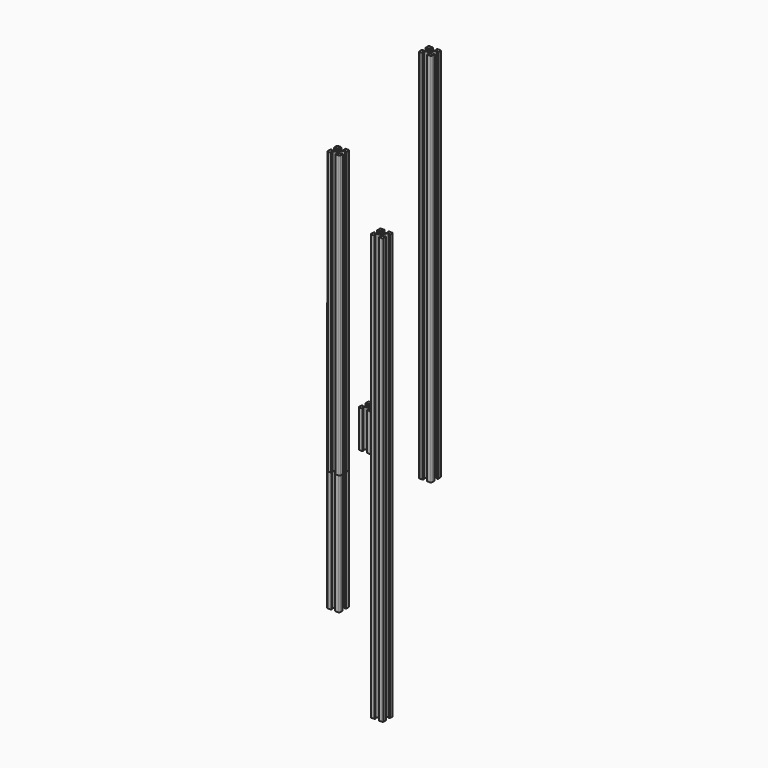
from build123d import *

# Parameters (mm, degrees)
F0_R     = 2.5
F1_DEPTH = 340
F2_R     = 2.5
F3_DEPTH = 215
F4_R     = 2.5
F5_DEPTH = 600
F6_R     = 2.5
F7_DEPTH = 450
F8_R     = 2.5
F9_DEPTH = 60


with BuildPart() as f1:
    # F0 (on Top) → F1 (new body, symmetric)
    with BuildSketch(Plane.XY):
        with BuildLine():
            Line((-4.724786, -6.718866), (-1.724786, -6.718866))
            ThreePointArc((-1.724786, -6.718866), (-0.664126, -6.279526), (-0.224786, -5.218866))
            Line((-0.224786, -5.218866), (-0.224786, -2.218866))
            Line((-0.224786, -2.218866), (-0.224786, -0.318866))
            Line((-0.224786, -0.318866), (-0.524786, -0.318866))
            ThreePointArc((-0.524786, -0.318866), (-0.666208, -0.260287), (-0.724786, -0.118866))
            Line((-0.724786, -0.118866), (-0.724786, 0.181134))
            Line((-0.724786, 0.181134), (-2.024786, 0.181134))
            Line((-2.024786, 0.181134), (-2.024786, -2.218866))
            Line((-2.024786, -2.218866), (-3.664126, -2.218866))
            Line((-3.664126, -2.218866), (-5.739, -0.143992))
            ThreePointArc((-5.739, -0.143992), (-6.172545, 0.504855), (-6.324786, 1.270222))
            Line((-6.324786, 1.270222), (-6.324786, 5.292047))
            ThreePointArc((-6.324786, 5.292047), (-6.172545, 6.057414), (-5.739, 6.706261))
            Line((-5.739, 6.706261), (-3.664126, 8.781134))
            Line((-3.664126, 8.781134), (-2.024786, 8.781134))
            Line((-2.024786, 8.781134), (-2.024786, 6.381134))
            Line((-2.024786, 6.381134), (-0.724786, 6.381134))
            Line((-0.724786, 6.381134), (-0.724786, 6.681134))
            ThreePointArc((-0.724786, 6.681134), (-0.666208, 6.822556), (-0.524786, 6.881134))
            Line((-0.524786, 6.881134), (-0.224786, 6.881134))
            Line((-0.224786, 6.881134), (-0.224786, 8.781134))
            Line((-0.224786, 8.781134), (-0.224786, 11.781134))
            ThreePointArc((-0.224786, 11.781134), (-0.664126, 12.841794), (-1.724786, 13.281134))
            Line((-1.724786, 13.281134), (-4.724786, 13.281134))
            Line((-4.724786, 13.281134), (-6.124786, 13.281134))
            Line((-6.124786, 13.281134), (-6.624786, 13.281134))
            Line((-6.624786, 13.281134), (-6.624786, 12.981134))
            ThreePointArc((-6.624786, 12.981134), (-6.683365, 12.839713), (-6.824786, 12.781134))
            Line((-6.824786, 12.781134), (-7.124786, 12.781134))
            Line((-7.124786, 12.781134), (-7.124786, 11.481134))
            Line((-7.124786, 11.481134), (-4.724786, 11.481134))
            Line((-4.724786, 11.481134), (-4.724786, 9.841794))
            Line((-4.724786, 9.841794), (-6.79966, 7.766921))
            ThreePointArc((-6.79966, 7.766921), (-7.448507, 7.333375), (-8.213873, 7.181134))
            Line((-8.213873, 7.181134), (-12.235699, 7.181134))
            ThreePointArc((-12.235699, 7.181134), (-13.001066, 7.333375), (-13.649912, 7.766921))
            Line((-13.649912, 7.766921), (-15.724786, 9.841794))
            Line((-15.724786, 9.841794), (-15.724786, 11.481134))
            Line((-15.724786, 11.481134), (-13.324786, 11.481134))
            Line((-13.324786, 11.481134), (-13.324786, 12.781134))
            Line((-13.324786, 12.781134), (-13.624786, 12.781134))
            ThreePointArc((-13.624786, 12.781134), (-13.766208, 12.839713), (-13.824786, 12.981134))
            Line((-13.824786, 12.981134), (-13.824786, 13.281134))
            Line((-13.824786, 13.281134), (-14.324786, 13.281134))
            Line((-14.324786, 13.281134), (-15.724786, 13.281134))
            Line((-15.724786, 13.281134), (-18.724786, 13.281134))
            ThreePointArc((-18.724786, 13.281134), (-19.785446, 12.841794), (-20.224786, 11.781134))
            Line((-20.224786, 11.781134), (-20.224786, 8.781134))
            Line((-20.224786, 8.781134), (-20.224786, 6.881134))
            Line((-20.224786, 6.881134), (-19.924786, 6.881134))
            ThreePointArc((-19.924786, 6.881134), (-19.783365, 6.822556), (-19.724786, 6.681134))
            Line((-19.724786, 6.681134), (-19.724786, 6.381134))
            Line((-19.724786, 6.381134), (-18.424786, 6.381134))
            Line((-18.424786, 6.381134), (-18.424786, 8.781134))
            Line((-18.424786, 8.781134), (-16.785446, 8.781134))
            Line((-16.785446, 8.781134), (-14.710573, 6.706261))
            ThreePointArc((-14.710573, 6.706261), (-14.277027, 6.057414), (-14.124786, 5.292047))
            Line((-14.124786, 5.292047), (-14.124786, 1.270222))
            ThreePointArc((-14.124786, 1.270222), (-14.277027, 0.504855), (-14.710573, -0.143992))
            Line((-14.710573, -0.143992), (-16.785446, -2.218866))
            Line((-16.785446, -2.218866), (-18.424786, -2.218866))
            Line((-18.424786, -2.218866), (-18.424786, 0.181134))
            Line((-18.424786, 0.181134), (-19.724786, 0.181134))
            Line((-19.724786, 0.181134), (-19.724786, -0.118866))
            ThreePointArc((-19.724786, -0.118866), (-19.783365, -0.260287), (-19.924786, -0.318866))
            Line((-19.924786, -0.318866), (-20.224786, -0.318866))
            Line((-20.224786, -0.318866), (-20.224786, -2.218866))
            Line((-20.224786, -2.218866), (-20.224786, -5.218866))
            ThreePointArc((-20.224786, -5.218866), (-19.785446, -6.279526), (-18.724786, -6.718866))
            Line((-18.724786, -6.718866), (-15.724786, -6.718866))
            Line((-15.724786, -6.718866), (-14.324786, -6.718866))
            Line((-14.324786, -6.718866), (-13.824786, -6.718866))
            Line((-13.824786, -6.718866), (-13.824786, -6.418866))
            ThreePointArc((-13.824786, -6.418866), (-13.766208, -6.277444), (-13.624786, -6.218866))
            Line((-13.624786, -6.218866), (-13.324786, -6.218866))
            Line((-13.324786, -6.218866), (-13.324786, -4.918866))
            Line((-13.324786, -4.918866), (-15.724786, -4.918866))
            Line((-15.724786, -4.918866), (-15.724786, -3.279526))
            Line((-15.724786, -3.279526), (-13.649912, -1.204652))
            ThreePointArc((-13.649912, -1.204652), (-13.001066, -0.771107), (-12.235699, -0.618866))
            Line((-12.235699, -0.618866), (-8.213873, -0.618866))
            ThreePointArc((-8.213873, -0.618866), (-7.448507, -0.771107), (-6.79966, -1.204652))
            Line((-6.79966, -1.204652), (-4.724786, -3.279526))
            Line((-4.724786, -3.279526), (-4.724786, -4.918866))
            Line((-4.724786, -4.918866), (-7.124786, -4.918866))
            Line((-7.124786, -4.918866), (-7.124786, -6.218866))
            Line((-7.124786, -6.218866), (-6.824786, -6.218866))
            ThreePointArc((-6.824786, -6.218866), (-6.683365, -6.277444), (-6.624786, -6.418866))
            Line((-6.624786, -6.418866), (-6.624786, -6.718866))
            Line((-6.624786, -6.718866), (-6.124786, -6.718866))
            Line((-6.124786, -6.718866), (-4.724786, -6.718866))
        make_face()
        with Locations((-10.224786, 3.281134)):
            Circle(F0_R, mode=Mode.SUBTRACT)
    extrude(amount=F1_DEPTH, both=True)


with BuildPart() as f3:
    # F2 (on Top) → F3 (new body, symmetric)
    with BuildSketch(Plane.XY):
        with BuildLine():
            Line((-81.960408, 2.570584), (-78.960408, 2.570584))
            ThreePointArc((-78.960408, 2.570584), (-77.899748, 3.009924), (-77.460408, 4.070584))
            Line((-77.460408, 4.070584), (-77.460408, 7.070584))
            Line((-77.460408, 7.070584), (-77.460408, 8.970584))
            Line((-77.460408, 8.970584), (-77.760408, 8.970584))
            ThreePointArc((-77.760408, 8.970584), (-77.90183, 9.029163), (-77.960408, 9.170584))
            Line((-77.960408, 9.170584), (-77.960408, 9.470584))
            Line((-77.960408, 9.470584), (-79.260408, 9.470584))
            Line((-79.260408, 9.470584), (-79.260408, 7.070584))
            Line((-79.260408, 7.070584), (-80.899748, 7.070584))
            Line((-80.899748, 7.070584), (-82.974622, 9.145458))
            ThreePointArc((-82.974622, 9.145458), (-83.408168, 9.794305), (-83.560408, 10.559672))
            Line((-83.560408, 10.559672), (-83.560408, 14.581497))
            ThreePointArc((-83.560408, 14.581497), (-83.408168, 15.346864), (-82.974622, 15.995711))
            Line((-82.974622, 15.995711), (-80.899748, 18.070584))
            Line((-80.899748, 18.070584), (-79.260408, 18.070584))
            Line((-79.260408, 18.070584), (-79.260408, 15.670584))
            Line((-79.260408, 15.670584), (-77.960408, 15.670584))
            Line((-77.960408, 15.670584), (-77.960408, 15.970584))
            ThreePointArc((-77.960408, 15.970584), (-77.90183, 16.112006), (-77.760408, 16.170584))
            Line((-77.760408, 16.170584), (-77.460408, 16.170584))
            Line((-77.460408, 16.170584), (-77.460408, 18.070584))
            Line((-77.460408, 18.070584), (-77.460408, 21.070584))
            ThreePointArc((-77.460408, 21.070584), (-77.899748, 22.131244), (-78.960408, 22.570584))
            Line((-78.960408, 22.570584), (-81.960408, 22.570584))
            Line((-81.960408, 22.570584), (-83.360408, 22.570584))
            Line((-83.360408, 22.570584), (-83.860408, 22.570584))
            Line((-83.860408, 22.570584), (-83.860408, 22.270584))
            ThreePointArc((-83.860408, 22.270584), (-83.918987, 22.129163), (-84.060408, 22.070584))
            Line((-84.060408, 22.070584), (-84.360408, 22.070584))
            Line((-84.360408, 22.070584), (-84.360408, 20.770584))
            Line((-84.360408, 20.770584), (-81.960408, 20.770584))
            Line((-81.960408, 20.770584), (-81.960408, 19.131244))
            Line((-81.960408, 19.131244), (-84.035282, 17.056371))
            ThreePointArc((-84.035282, 17.056371), (-84.684129, 16.622825), (-85.449496, 16.470584))
            Line((-85.449496, 16.470584), (-89.471321, 16.470584))
            ThreePointArc((-89.471321, 16.470584), (-90.236688, 16.622825), (-90.885535, 17.056371))
            Line((-90.885535, 17.056371), (-92.960408, 19.131244))
            Line((-92.960408, 19.131244), (-92.960408, 20.770584))
            Line((-92.960408, 20.770584), (-90.560408, 20.770584))
            Line((-90.560408, 20.770584), (-90.560408, 22.070584))
            Line((-90.560408, 22.070584), (-90.860408, 22.070584))
            ThreePointArc((-90.860408, 22.070584), (-91.00183, 22.129163), (-91.060408, 22.270584))
            Line((-91.060408, 22.270584), (-91.060408, 22.570584))
            Line((-91.060408, 22.570584), (-91.560408, 22.570584))
            Line((-91.560408, 22.570584), (-92.960408, 22.570584))
            Line((-92.960408, 22.570584), (-95.960408, 22.570584))
            ThreePointArc((-95.960408, 22.570584), (-97.021069, 22.131244), (-97.460408, 21.070584))
            Line((-97.460408, 21.070584), (-97.460408, 18.070584))
            Line((-97.460408, 18.070584), (-97.460408, 16.170584))
            Line((-97.460408, 16.170584), (-97.160408, 16.170584))
            ThreePointArc((-97.160408, 16.170584), (-97.018987, 16.112006), (-96.960408, 15.970584))
            Line((-96.960408, 15.970584), (-96.960408, 15.670584))
            Line((-96.960408, 15.670584), (-95.660408, 15.670584))
            Line((-95.660408, 15.670584), (-95.660408, 18.070584))
            Line((-95.660408, 18.070584), (-94.021069, 18.070584))
            Line((-94.021069, 18.070584), (-91.946195, 15.995711))
            ThreePointArc((-91.946195, 15.995711), (-91.512649, 15.346864), (-91.360408, 14.581497))
            Line((-91.360408, 14.581497), (-91.360408, 10.559672))
            ThreePointArc((-91.360408, 10.559672), (-91.512649, 9.794305), (-91.946195, 9.145458))
            Line((-91.946195, 9.145458), (-94.021069, 7.070584))
            Line((-94.021069, 7.070584), (-95.660408, 7.070584))
            Line((-95.660408, 7.070584), (-95.660408, 9.470584))
            Line((-95.660408, 9.470584), (-96.960408, 9.470584))
            Line((-96.960408, 9.470584), (-96.960408, 9.170584))
            ThreePointArc((-96.960408, 9.170584), (-97.018987, 9.029163), (-97.160408, 8.970584))
            Line((-97.160408, 8.970584), (-97.460408, 8.970584))
            Line((-97.460408, 8.970584), (-97.460408, 7.070584))
            Line((-97.460408, 7.070584), (-97.460408, 4.070584))
            ThreePointArc((-97.460408, 4.070584), (-97.021069, 3.009924), (-95.960408, 2.570584))
            Line((-95.960408, 2.570584), (-92.960408, 2.570584))
            Line((-92.960408, 2.570584), (-91.560408, 2.570584))
            Line((-91.560408, 2.570584), (-91.060408, 2.570584))
            Line((-91.060408, 2.570584), (-91.060408, 2.870584))
            ThreePointArc((-91.060408, 2.870584), (-91.00183, 3.012006), (-90.860408, 3.070584))
            Line((-90.860408, 3.070584), (-90.560408, 3.070584))
            Line((-90.560408, 3.070584), (-90.560408, 4.370584))
            Line((-90.560408, 4.370584), (-92.960408, 4.370584))
            Line((-92.960408, 4.370584), (-92.960408, 6.009924))
            Line((-92.960408, 6.009924), (-90.885535, 8.084798))
            ThreePointArc((-90.885535, 8.084798), (-90.236688, 8.518343), (-89.471321, 8.670584))
            Line((-89.471321, 8.670584), (-85.449496, 8.670584))
            ThreePointArc((-85.449496, 8.670584), (-84.684129, 8.518343), (-84.035282, 8.084798))
            Line((-84.035282, 8.084798), (-81.960408, 6.009924))
            Line((-81.960408, 6.009924), (-81.960408, 4.370584))
            Line((-81.960408, 4.370584), (-84.360408, 4.370584))
            Line((-84.360408, 4.370584), (-84.360408, 3.070584))
            Line((-84.360408, 3.070584), (-84.060408, 3.070584))
            ThreePointArc((-84.060408, 3.070584), (-83.918987, 3.012006), (-83.860408, 2.870584))
            Line((-83.860408, 2.870584), (-83.860408, 2.570584))
            Line((-83.860408, 2.570584), (-83.360408, 2.570584))
            Line((-83.360408, 2.570584), (-81.960408, 2.570584))
        make_face()
        with Locations((-87.460408, 12.570584)):
            Circle(F2_R, mode=Mode.SUBTRACT)
    extrude(amount=F3_DEPTH, both=True)


with BuildPart() as f5:
    # F4 (on Top) → F5 (new body)
    with BuildSketch(Plane.XY):
        with BuildLine():
            Line((46.328743, 25.884931), (49.328743, 25.884931))
            ThreePointArc((49.328743, 25.884931), (50.389404, 26.324271), (50.828743, 27.384931))
            Line((50.828743, 27.384931), (50.828743, 30.384931))
            Line((50.828743, 30.384931), (50.828743, 32.284931))
            Line((50.828743, 32.284931), (50.528743, 32.284931))
            ThreePointArc((50.528743, 32.284931), (50.387322, 32.343509), (50.328743, 32.484931))
            Line((50.328743, 32.484931), (50.328743, 32.784931))
            Line((50.328743, 32.784931), (49.028743, 32.784931))
            Line((49.028743, 32.784931), (49.028743, 30.384931))
            Line((49.028743, 30.384931), (47.389404, 30.384931))
            Line((47.389404, 30.384931), (45.31453, 32.459805))
            ThreePointArc((45.31453, 32.459805), (44.880984, 33.108651), (44.728743, 33.874018))
            Line((44.728743, 33.874018), (44.728743, 37.895844))
            ThreePointArc((44.728743, 37.895844), (44.880984, 38.66121), (45.31453, 39.310057))
            Line((45.31453, 39.310057), (47.389404, 41.384931))
            Line((47.389404, 41.384931), (49.028743, 41.384931))
            Line((49.028743, 41.384931), (49.028743, 38.984931))
            Line((49.028743, 38.984931), (50.328743, 38.984931))
            Line((50.328743, 38.984931), (50.328743, 39.284931))
            ThreePointArc((50.328743, 39.284931), (50.387322, 39.426352), (50.528743, 39.484931))
            Line((50.528743, 39.484931), (50.828743, 39.484931))
            Line((50.828743, 39.484931), (50.828743, 41.384931))
            Line((50.828743, 41.384931), (50.828743, 44.384931))
            ThreePointArc((50.828743, 44.384931), (50.389404, 45.445591), (49.328743, 45.884931))
            Line((49.328743, 45.884931), (46.328743, 45.884931))
            Line((46.328743, 45.884931), (44.928743, 45.884931))
            Line((44.928743, 45.884931), (44.428743, 45.884931))
            Line((44.428743, 45.884931), (44.428743, 45.584931))
            ThreePointArc((44.428743, 45.584931), (44.370165, 45.443509), (44.228743, 45.384931))
            Line((44.228743, 45.384931), (43.928743, 45.384931))
            Line((43.928743, 45.384931), (43.928743, 44.084931))
            Line((43.928743, 44.084931), (46.328743, 44.084931))
            Line((46.328743, 44.084931), (46.328743, 42.445591))
            Line((46.328743, 42.445591), (44.25387, 40.370717))
            ThreePointArc((44.25387, 40.370717), (43.605023, 39.937172), (42.839656, 39.784931))
            Line((42.839656, 39.784931), (38.817831, 39.784931))
            ThreePointArc((38.817831, 39.784931), (38.052464, 39.937172), (37.403617, 40.370717))
            Line((37.403617, 40.370717), (35.328743, 42.445591))
            Line((35.328743, 42.445591), (35.328743, 44.084931))
            Line((35.328743, 44.084931), (37.728743, 44.084931))
            Line((37.728743, 44.084931), (37.728743, 45.384931))
            Line((37.728743, 45.384931), (37.428743, 45.384931))
            ThreePointArc((37.428743, 45.384931), (37.287322, 45.443509), (37.228743, 45.584931))
            Line((37.228743, 45.584931), (37.228743, 45.884931))
            Line((37.228743, 45.884931), (36.728743, 45.884931))
            Line((36.728743, 45.884931), (35.328743, 45.884931))
            Line((35.328743, 45.884931), (32.328743, 45.884931))
            ThreePointArc((32.328743, 45.884931), (31.268083, 45.445591), (30.828743, 44.384931))
            Line((30.828743, 44.384931), (30.828743, 41.384931))
            Line((30.828743, 41.384931), (30.828743, 39.484931))
            Line((30.828743, 39.484931), (31.128743, 39.484931))
            ThreePointArc((31.128743, 39.484931), (31.270165, 39.426352), (31.328743, 39.284931))
            Line((31.328743, 39.284931), (31.328743, 38.984931))
            Line((31.328743, 38.984931), (32.628743, 38.984931))
            Line((32.628743, 38.984931), (32.628743, 41.384931))
            Line((32.628743, 41.384931), (34.268083, 41.384931))
            Line((34.268083, 41.384931), (36.342957, 39.310057))
            ThreePointArc((36.342957, 39.310057), (36.776503, 38.66121), (36.928743, 37.895844))
            Line((36.928743, 37.895844), (36.928743, 33.874018))
            ThreePointArc((36.928743, 33.874018), (36.776503, 33.108651), (36.342957, 32.459805))
            Line((36.342957, 32.459805), (34.268083, 30.384931))
            Line((34.268083, 30.384931), (32.628743, 30.384931))
            Line((32.628743, 30.384931), (32.628743, 32.784931))
            Line((32.628743, 32.784931), (31.328743, 32.784931))
            Line((31.328743, 32.784931), (31.328743, 32.484931))
            ThreePointArc((31.328743, 32.484931), (31.270165, 32.343509), (31.128743, 32.284931))
            Line((31.128743, 32.284931), (30.828743, 32.284931))
            Line((30.828743, 32.284931), (30.828743, 30.384931))
            Line((30.828743, 30.384931), (30.828743, 27.384931))
            ThreePointArc((30.828743, 27.384931), (31.268083, 26.324271), (32.328743, 25.884931))
            Line((32.328743, 25.884931), (35.328743, 25.884931))
            Line((35.328743, 25.884931), (36.728743, 25.884931))
            Line((36.728743, 25.884931), (37.228743, 25.884931))
            Line((37.228743, 25.884931), (37.228743, 26.184931))
            ThreePointArc((37.228743, 26.184931), (37.287322, 26.326352), (37.428743, 26.384931))
            Line((37.428743, 26.384931), (37.728743, 26.384931))
            Line((37.728743, 26.384931), (37.728743, 27.684931))
            Line((37.728743, 27.684931), (35.328743, 27.684931))
            Line((35.328743, 27.684931), (35.328743, 29.324271))
            Line((35.328743, 29.324271), (37.403617, 31.399144))
            ThreePointArc((37.403617, 31.399144), (38.052464, 31.83269), (38.817831, 31.984931))
            Line((38.817831, 31.984931), (42.839656, 31.984931))
            ThreePointArc((42.839656, 31.984931), (43.605023, 31.83269), (44.25387, 31.399144))
            Line((44.25387, 31.399144), (46.328743, 29.324271))
            Line((46.328743, 29.324271), (46.328743, 27.684931))
            Line((46.328743, 27.684931), (43.928743, 27.684931))
            Line((43.928743, 27.684931), (43.928743, 26.384931))
            Line((43.928743, 26.384931), (44.228743, 26.384931))
            ThreePointArc((44.228743, 26.384931), (44.370165, 26.326352), (44.428743, 26.184931))
            Line((44.428743, 26.184931), (44.428743, 25.884931))
            Line((44.428743, 25.884931), (44.928743, 25.884931))
            Line((44.928743, 25.884931), (46.328743, 25.884931))
        make_face()
        with Locations((40.828743, 35.884931)):
            Circle(F4_R, mode=Mode.SUBTRACT)
    extrude(amount=F5_DEPTH)


with BuildPart() as f7:
    # F6 (on Top) → F7 (new body)
    with BuildSketch(Plane.XY):
        with BuildLine():
            Line((-54.565678, -30.809163), (-51.565678, -30.809163))
            ThreePointArc((-51.565678, -30.809163), (-50.505018, -30.369823), (-50.065678, -29.309163))
            Line((-50.065678, -29.309163), (-50.065678, -26.309163))
            Line((-50.065678, -26.309163), (-50.065678, -24.409163))
            Line((-50.065678, -24.409163), (-50.365678, -24.409163))
            ThreePointArc((-50.365678, -24.409163), (-50.507099, -24.350585), (-50.565678, -24.209163))
            Line((-50.565678, -24.209163), (-50.565678, -23.909163))
            Line((-50.565678, -23.909163), (-51.865678, -23.909163))
            Line((-51.865678, -23.909163), (-51.865678, -26.309163))
            Line((-51.865678, -26.309163), (-53.505018, -26.309163))
            Line((-53.505018, -26.309163), (-55.579891, -24.23429))
            ThreePointArc((-55.579891, -24.23429), (-56.013437, -23.585443), (-56.165678, -22.820076))
            Line((-56.165678, -22.820076), (-56.165678, -18.798251))
            ThreePointArc((-56.165678, -18.798251), (-56.013437, -18.032884), (-55.579891, -17.384037))
            Line((-55.579891, -17.384037), (-53.505018, -15.309163))
            Line((-53.505018, -15.309163), (-51.865678, -15.309163))
            Line((-51.865678, -15.309163), (-51.865678, -17.709163))
            Line((-51.865678, -17.709163), (-50.565678, -17.709163))
            Line((-50.565678, -17.709163), (-50.565678, -17.409163))
            ThreePointArc((-50.565678, -17.409163), (-50.507099, -17.267742), (-50.365678, -17.209163))
            Line((-50.365678, -17.209163), (-50.065678, -17.209163))
            Line((-50.065678, -17.209163), (-50.065678, -15.309163))
            Line((-50.065678, -15.309163), (-50.065678, -12.309163))
            ThreePointArc((-50.065678, -12.309163), (-50.505018, -11.248503), (-51.565678, -10.809163))
            Line((-51.565678, -10.809163), (-54.565678, -10.809163))
            Line((-54.565678, -10.809163), (-55.965678, -10.809163))
            Line((-55.965678, -10.809163), (-56.465678, -10.809163))
            Line((-56.465678, -10.809163), (-56.465678, -11.109163))
            ThreePointArc((-56.465678, -11.109163), (-56.524257, -11.250585), (-56.665678, -11.309163))
            Line((-56.665678, -11.309163), (-56.965678, -11.309163))
            Line((-56.965678, -11.309163), (-56.965678, -12.609163))
            Line((-56.965678, -12.609163), (-54.565678, -12.609163))
            Line((-54.565678, -12.609163), (-54.565678, -14.248503))
            Line((-54.565678, -14.248503), (-56.640552, -16.323377))
            ThreePointArc((-56.640552, -16.323377), (-57.289398, -16.756922), (-58.054765, -16.909163))
            Line((-58.054765, -16.909163), (-62.076591, -16.909163))
            ThreePointArc((-62.076591, -16.909163), (-62.841957, -16.756922), (-63.490804, -16.323377))
            Line((-63.490804, -16.323377), (-65.565678, -14.248503))
            Line((-65.565678, -14.248503), (-65.565678, -12.609163))
            Line((-65.565678, -12.609163), (-63.165678, -12.609163))
            Line((-63.165678, -12.609163), (-63.165678, -11.309163))
            Line((-63.165678, -11.309163), (-63.465678, -11.309163))
            ThreePointArc((-63.465678, -11.309163), (-63.607099, -11.250585), (-63.665678, -11.109163))
            Line((-63.665678, -11.109163), (-63.665678, -10.809163))
            Line((-63.665678, -10.809163), (-64.165678, -10.809163))
            Line((-64.165678, -10.809163), (-65.565678, -10.809163))
            Line((-65.565678, -10.809163), (-68.565678, -10.809163))
            ThreePointArc((-68.565678, -10.809163), (-69.626338, -11.248503), (-70.065678, -12.309163))
            Line((-70.065678, -12.309163), (-70.065678, -15.309163))
            Line((-70.065678, -15.309163), (-70.065678, -17.209163))
            Line((-70.065678, -17.209163), (-69.765678, -17.209163))
            ThreePointArc((-69.765678, -17.209163), (-69.624257, -17.267742), (-69.565678, -17.409163))
            Line((-69.565678, -17.409163), (-69.565678, -17.709163))
            Line((-69.565678, -17.709163), (-68.265678, -17.709163))
            Line((-68.265678, -17.709163), (-68.265678, -15.309163))
            Line((-68.265678, -15.309163), (-66.626338, -15.309163))
            Line((-66.626338, -15.309163), (-64.551464, -17.384037))
            ThreePointArc((-64.551464, -17.384037), (-64.117919, -18.032884), (-63.965678, -18.798251))
            Line((-63.965678, -18.798251), (-63.965678, -22.820076))
            ThreePointArc((-63.965678, -22.820076), (-64.117919, -23.585443), (-64.551464, -24.23429))
            Line((-64.551464, -24.23429), (-66.626338, -26.309163))
            Line((-66.626338, -26.309163), (-68.265678, -26.309163))
            Line((-68.265678, -26.309163), (-68.265678, -23.909163))
            Line((-68.265678, -23.909163), (-69.565678, -23.909163))
            Line((-69.565678, -23.909163), (-69.565678, -24.209163))
            ThreePointArc((-69.565678, -24.209163), (-69.624257, -24.350585), (-69.765678, -24.409163))
            Line((-69.765678, -24.409163), (-70.065678, -24.409163))
            Line((-70.065678, -24.409163), (-70.065678, -26.309163))
            Line((-70.065678, -26.309163), (-70.065678, -29.309163))
            ThreePointArc((-70.065678, -29.309163), (-69.626338, -30.369823), (-68.565678, -30.809163))
            Line((-68.565678, -30.809163), (-65.565678, -30.809163))
            Line((-65.565678, -30.809163), (-64.165678, -30.809163))
            Line((-64.165678, -30.809163), (-63.665678, -30.809163))
            Line((-63.665678, -30.809163), (-63.665678, -30.509163))
            ThreePointArc((-63.665678, -30.509163), (-63.607099, -30.367742), (-63.465678, -30.309163))
            Line((-63.465678, -30.309163), (-63.165678, -30.309163))
            Line((-63.165678, -30.309163), (-63.165678, -29.009163))
            Line((-63.165678, -29.009163), (-65.565678, -29.009163))
            Line((-65.565678, -29.009163), (-65.565678, -27.369823))
            Line((-65.565678, -27.369823), (-63.490804, -25.29495))
            ThreePointArc((-63.490804, -25.29495), (-62.841957, -24.861404), (-62.076591, -24.709163))
            Line((-62.076591, -24.709163), (-58.054765, -24.709163))
            ThreePointArc((-58.054765, -24.709163), (-57.289398, -24.861404), (-56.640552, -25.29495))
            Line((-56.640552, -25.29495), (-54.565678, -27.369823))
            Line((-54.565678, -27.369823), (-54.565678, -29.009163))
            Line((-54.565678, -29.009163), (-56.965678, -29.009163))
            Line((-56.965678, -29.009163), (-56.965678, -30.309163))
            Line((-56.965678, -30.309163), (-56.665678, -30.309163))
            ThreePointArc((-56.665678, -30.309163), (-56.524257, -30.367742), (-56.465678, -30.509163))
            Line((-56.465678, -30.509163), (-56.465678, -30.809163))
            Line((-56.465678, -30.809163), (-55.965678, -30.809163))
            Line((-55.965678, -30.809163), (-54.565678, -30.809163))
        make_face()
        with Locations((-60.065678, -20.809163)):
            Circle(F6_R, mode=Mode.SUBTRACT)
    extrude(amount=F7_DEPTH)


with BuildPart() as f9:
    # F8 (on Top) → F9 (new body)
    with BuildSketch(Plane.XY):
        with BuildLine():
            Line((-60.259006, 38.880032), (-57.259006, 38.880032))
            ThreePointArc((-57.259006, 38.880032), (-56.198345, 39.319372), (-55.759006, 40.380032))
            Line((-55.759006, 40.380032), (-55.759006, 43.380032))
            Line((-55.759006, 43.380032), (-55.759006, 45.280032))
            Line((-55.759006, 45.280032), (-56.059006, 45.280032))
            ThreePointArc((-56.059006, 45.280032), (-56.200427, 45.338611), (-56.259006, 45.480032))
            Line((-56.259006, 45.480032), (-56.259006, 45.780032))
            Line((-56.259006, 45.780032), (-57.559006, 45.780032))
            Line((-57.559006, 45.780032), (-57.559006, 43.380032))
            Line((-57.559006, 43.380032), (-59.198345, 43.380032))
            Line((-59.198345, 43.380032), (-61.273219, 45.454906))
            ThreePointArc((-61.273219, 45.454906), (-61.706765, 46.103753), (-61.859006, 46.86912))
            Line((-61.859006, 46.86912), (-61.859006, 50.890945))
            ThreePointArc((-61.859006, 50.890945), (-61.706765, 51.656312), (-61.273219, 52.305159))
            Line((-61.273219, 52.305159), (-59.198345, 54.380032))
            Line((-59.198345, 54.380032), (-57.559006, 54.380032))
            Line((-57.559006, 54.380032), (-57.559006, 51.980032))
            Line((-57.559006, 51.980032), (-56.259006, 51.980032))
            Line((-56.259006, 51.980032), (-56.259006, 52.280032))
            ThreePointArc((-56.259006, 52.280032), (-56.200427, 52.421454), (-56.059006, 52.480032))
            Line((-56.059006, 52.480032), (-55.759006, 52.480032))
            Line((-55.759006, 52.480032), (-55.759006, 54.380032))
            Line((-55.759006, 54.380032), (-55.759006, 57.380032))
            ThreePointArc((-55.759006, 57.380032), (-56.198345, 58.440693), (-57.259006, 58.880032))
            Line((-57.259006, 58.880032), (-60.259006, 58.880032))
            Line((-60.259006, 58.880032), (-61.659006, 58.880032))
            Line((-61.659006, 58.880032), (-62.159006, 58.880032))
            Line((-62.159006, 58.880032), (-62.159006, 58.580032))
            ThreePointArc((-62.159006, 58.580032), (-62.217584, 58.438611), (-62.359006, 58.380032))
            Line((-62.359006, 58.380032), (-62.659006, 58.380032))
            Line((-62.659006, 58.380032), (-62.659006, 57.080032))
            Line((-62.659006, 57.080032), (-60.259006, 57.080032))
            Line((-60.259006, 57.080032), (-60.259006, 55.440693))
            Line((-60.259006, 55.440693), (-62.333879, 53.365819))
            ThreePointArc((-62.333879, 53.365819), (-62.982726, 52.932273), (-63.748093, 52.780032))
            Line((-63.748093, 52.780032), (-67.769918, 52.780032))
            ThreePointArc((-67.769918, 52.780032), (-68.535285, 52.932273), (-69.184132, 53.365819))
            Line((-69.184132, 53.365819), (-71.259006, 55.440693))
            Line((-71.259006, 55.440693), (-71.259006, 57.080032))
            Line((-71.259006, 57.080032), (-68.859006, 57.080032))
            Line((-68.859006, 57.080032), (-68.859006, 58.380032))
            Line((-68.859006, 58.380032), (-69.159006, 58.380032))
            ThreePointArc((-69.159006, 58.380032), (-69.300427, 58.438611), (-69.359006, 58.580032))
            Line((-69.359006, 58.580032), (-69.359006, 58.880032))
            Line((-69.359006, 58.880032), (-69.859006, 58.880032))
            Line((-69.859006, 58.880032), (-71.259006, 58.880032))
            Line((-71.259006, 58.880032), (-74.259006, 58.880032))
            ThreePointArc((-74.259006, 58.880032), (-75.319666, 58.440693), (-75.759006, 57.380032))
            Line((-75.759006, 57.380032), (-75.759006, 54.380032))
            Line((-75.759006, 54.380032), (-75.759006, 52.480032))
            Line((-75.759006, 52.480032), (-75.459006, 52.480032))
            ThreePointArc((-75.459006, 52.480032), (-75.317584, 52.421454), (-75.259006, 52.280032))
            Line((-75.259006, 52.280032), (-75.259006, 51.980032))
            Line((-75.259006, 51.980032), (-73.959006, 51.980032))
            Line((-73.959006, 51.980032), (-73.959006, 54.380032))
            Line((-73.959006, 54.380032), (-72.319666, 54.380032))
            Line((-72.319666, 54.380032), (-70.244792, 52.305159))
            ThreePointArc((-70.244792, 52.305159), (-69.811246, 51.656312), (-69.659006, 50.890945))
            Line((-69.659006, 50.890945), (-69.659006, 46.86912))
            ThreePointArc((-69.659006, 46.86912), (-69.811246, 46.103753), (-70.244792, 45.454906))
            Line((-70.244792, 45.454906), (-72.319666, 43.380032))
            Line((-72.319666, 43.380032), (-73.959006, 43.380032))
            Line((-73.959006, 43.380032), (-73.959006, 45.780032))
            Line((-73.959006, 45.780032), (-75.259006, 45.780032))
            Line((-75.259006, 45.780032), (-75.259006, 45.480032))
            ThreePointArc((-75.259006, 45.480032), (-75.317584, 45.338611), (-75.459006, 45.280032))
            Line((-75.459006, 45.280032), (-75.759006, 45.280032))
            Line((-75.759006, 45.280032), (-75.759006, 43.380032))
            Line((-75.759006, 43.380032), (-75.759006, 40.380032))
            ThreePointArc((-75.759006, 40.380032), (-75.319666, 39.319372), (-74.259006, 38.880032))
            Line((-74.259006, 38.880032), (-71.259006, 38.880032))
            Line((-71.259006, 38.880032), (-69.859006, 38.880032))
            Line((-69.859006, 38.880032), (-69.359006, 38.880032))
            Line((-69.359006, 38.880032), (-69.359006, 39.180032))
            ThreePointArc((-69.359006, 39.180032), (-69.300427, 39.321454), (-69.159006, 39.380032))
            Line((-69.159006, 39.380032), (-68.859006, 39.380032))
            Line((-68.859006, 39.380032), (-68.859006, 40.680032))
            Line((-68.859006, 40.680032), (-71.259006, 40.680032))
            Line((-71.259006, 40.680032), (-71.259006, 42.319372))
            Line((-71.259006, 42.319372), (-69.184132, 44.394246))
            ThreePointArc((-69.184132, 44.394246), (-68.535285, 44.827791), (-67.769918, 44.980032))
            Line((-67.769918, 44.980032), (-63.748093, 44.980032))
            ThreePointArc((-63.748093, 44.980032), (-62.982726, 44.827791), (-62.333879, 44.394246))
            Line((-62.333879, 44.394246), (-60.259006, 42.319372))
            Line((-60.259006, 42.319372), (-60.259006, 40.680032))
            Line((-60.259006, 40.680032), (-62.659006, 40.680032))
            Line((-62.659006, 40.680032), (-62.659006, 39.380032))
            Line((-62.659006, 39.380032), (-62.359006, 39.380032))
            ThreePointArc((-62.359006, 39.380032), (-62.217584, 39.321454), (-62.159006, 39.180032))
            Line((-62.159006, 39.180032), (-62.159006, 38.880032))
            Line((-62.159006, 38.880032), (-61.659006, 38.880032))
            Line((-61.659006, 38.880032), (-60.259006, 38.880032))
        make_face()
        with Locations((-65.759006, 48.880032)):
            Circle(F8_R, mode=Mode.SUBTRACT)
    extrude(amount=F9_DEPTH)


with BuildPart() as f10_1:
    # F10: copy of F1
    add(f1.part)


solid = Compound([f1.part, f3.part, f5.part, f7.part, f9.part, f10_1.part])
